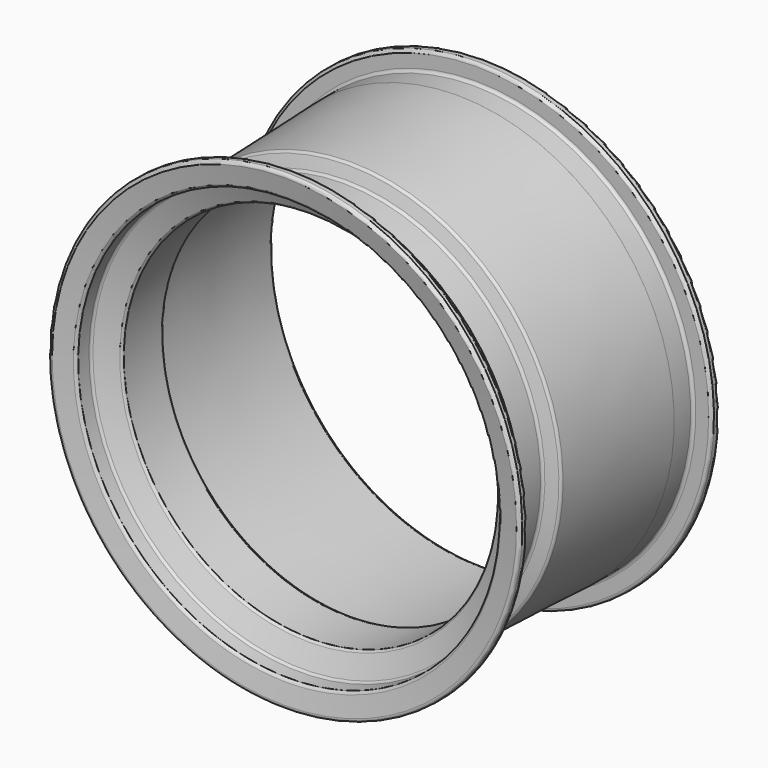
from build123d import *


with BuildPart() as f1:
    # F0 (on Right) → F1 (revolve)
    with BuildSketch(Plane.YZ):
        with BuildLine():
            Line((-123.309158, 240.383368), (-126.722188, 240.383368))
            ThreePointArc((-126.722188, 240.383368), (-129.023422, 239.308029), (-129.674919, 236.852915))
            Line((-129.674919, 236.852915), (-126.261606, 217.852915))
            ThreePointArc((-126.261606, 217.852915), (-125.233536, 216.082134), (-123.308875, 215.383368))
            Line((-123.308875, 215.383368), (-109.493427, 215.383368))
            ThreePointArc((-109.493427, 215.383368), (-107.831386, 214.880891), (-106.726103, 213.541781))
            Line((-106.726103, 213.541781), (-98.144633, 193.041586))
            ThreePointArc((-98.144633, 193.041586), (-97.03935, 191.702477), (-95.377309, 191.2))
            Line((-95.377309, 191.2), (-47.026657, 191.2))
            ThreePointArc((-47.026657, 191.2), (-45.23921, 191.790636), (-44.155584, 193.329978))
            Line((-44.155584, 193.329978), (-39.687663, 208.074112))
            ThreePointArc((-39.687663, 208.074112), (-38.642413, 209.584503), (-36.912717, 210.202549))
            Line((-36.912717, 210.202549), (121.786969, 215.290273))
            ThreePointArc((121.786969, 215.290273), (123.845881, 216.201675), (124.690842, 218.288733))
            Line((124.690842, 218.288733), (124.690842, 237.383368))
            ThreePointArc((124.690842, 237.383368), (123.812163, 239.504688), (121.690842, 240.383368))
            Line((121.690842, 240.383368), (117.690842, 240.383368))
            ThreePointArc((117.690842, 240.383368), (115.569522, 239.504688), (114.690842, 237.383368))
            Line((114.690842, 237.383368), (114.690842, 224.300963))
            ThreePointArc((114.690842, 224.300963), (113.812163, 222.179642), (111.690842, 221.300963))
            Line((111.690842, 221.300963), (90.863634, 221.300963))
            ThreePointArc((90.863634, 221.300963), (90.815564, 221.300577), (90.767507, 221.299422))
            Line((90.767507, 221.299422), (-45.321155, 216.936581))
            ThreePointArc((-45.321155, 216.936581), (-47.050852, 216.318535), (-48.096101, 214.808144))
            Line((-48.096101, 214.808144), (-51.574334, 203.329978))
            ThreePointArc((-51.574334, 203.329978), (-52.657961, 201.790636), (-54.445408, 201.2))
            Line((-54.445408, 201.2), (-91.974792, 201.2))
            ThreePointArc((-91.974792, 201.2), (-93.636833, 201.702477), (-94.742115, 203.041586))
            Line((-94.742115, 203.041586), (-102.067773, 220.541781))
            ThreePointArc((-102.067773, 220.541781), (-103.173056, 221.880891), (-104.835096, 222.383368))
            Line((-104.835096, 222.383368), (-117.309158, 222.383368))
            ThreePointArc((-117.309158, 222.383368), (-119.430478, 223.262047), (-120.309158, 225.383368))
            Line((-120.309158, 225.383368), (-120.309158, 237.383368))
            ThreePointArc((-120.309158, 237.383368), (-121.187837, 239.504688), (-123.309158, 240.383368))
        make_face()
    revolve(axis=Axis((0, -37.389193, 0), (0, 1, 0)))


solid = f1.part
